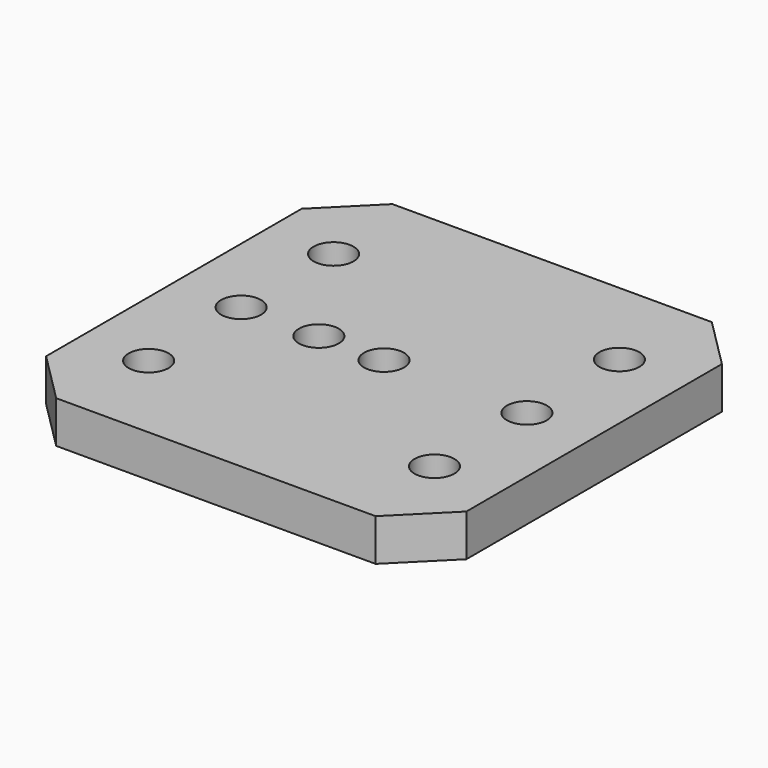
from build123d import *

# Parameters (mm, degrees)
F0_W     = 100
F0_H     = 100
F1_DEPTH = 10
F2_SIZE  = 12
F4_D     = 9.5


with BuildPart() as f1:
    # F0 (on Top) → F1 (new body)
    with BuildSketch(Plane.XY):
        Rectangle(F0_W, F0_H)
    extrude(amount=F1_DEPTH)

    # F2
    f2_edges = [f1.edges().sort_by_distance(p)[0] for p in [
        (50, -50, 5),
        (50, 50, 5),
        (-50, -50, 5),
        (-50, 50, 5),
    ]]
    chamfer(f2_edges, length=F2_SIZE)

    # F4 (through all)
    with Locations(Plane.XY.offset(10)):
        with Locations((-15.5, 0), (-34, 0), (-34, -27.5), (-34, 27.5), (34, 27.5), (34, 0), (34, -27.5), (0, 0)):
            Hole(F4_D / 2)


solid = f1.part
